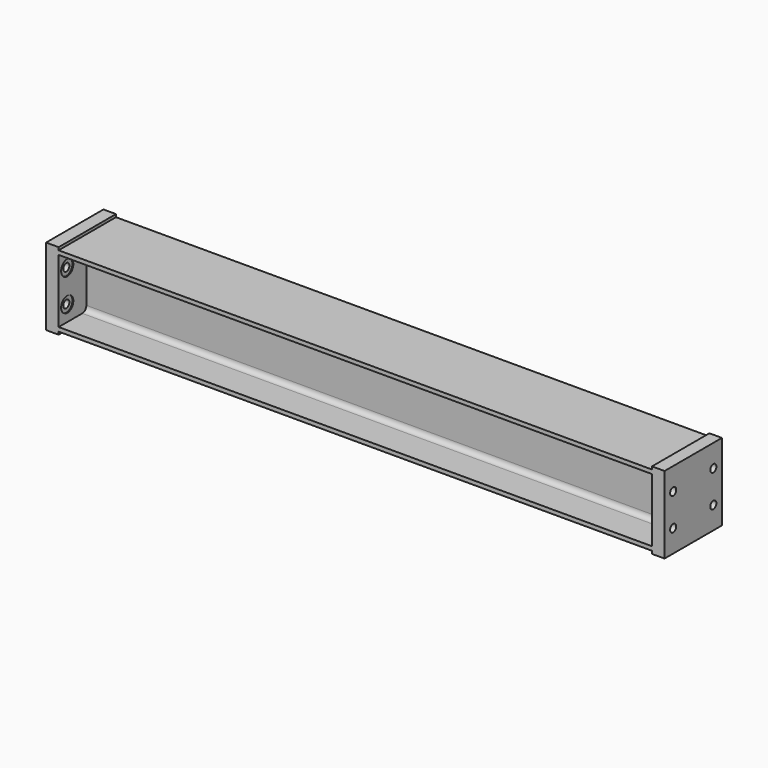
from build123d import *

# Parameters (mm, degrees)
F1_DEPTH       = 1050.925
F2_W           = 254
F2_H           = 273.05
F3_DEPTH       = 44.45
F5_D           = 26.9748
F5_CBORE_D     = 53.975
F5_CBORE_DEPTH = 3.175


with BuildPart() as f1:
    # F0 (on Right) → F1 (new body, symmetric)
    with BuildSketch(Plane.YZ):
        with BuildLine():
            Line((127, 126.746), (-127, 126.746))
            Line((-127, 126.746), (-127, 112.522))
            Line((-127, 112.522), (-22.098, 112.522))
            ThreePointArc((-22.098, 112.522), (-9.5256414305, 107.3143585695), (-4.318, 94.742))
            Line((-4.318, 94.742), (-4.318, -94.742))
            ThreePointArc((-4.318, -94.742), (-9.5256414305, -107.3143585695), (-22.098, -112.522))
            Line((-22.098, -112.522), (-127, -112.522))
            Line((-127, -112.522), (-127, -126.746))
            Line((-127, -126.746), (127, -126.746))
            Line((127, -126.746), (127, -112.522))
            Line((127, -112.522), (22.098, -112.522))
            ThreePointArc((22.098, -112.522), (9.5256414305, -107.3143585695), (4.318, -94.742))
            Line((4.318, -94.742), (4.318, 94.742))
            ThreePointArc((4.318, 94.742), (9.5256414305, 107.3143585695), (22.098, 112.522))
            Line((22.098, 112.522), (127, 112.522))
            Line((127, 112.522), (127, 126.746))
        make_face()
    extrude(amount=F1_DEPTH, both=True)

    # F2 (on face) → F3 (join)
    with BuildSketch(Plane.YZ.offset(1050.925)):
        Rectangle(F2_W, F2_H)
    extrude(amount=F3_DEPTH)

    # F5 (through all)
    with Locations(Plane(origin=(1050.925, 0, 0), x_dir=(0, -1, 0), z_dir=(-1, 0, 0))):
        with Locations((-88.9, 57.15), (-88.9, -57.15), (88.9, 57.15), (88.9, -57.15)):
            CounterBoreHole(F5_D / 2, F5_CBORE_D / 2, F5_CBORE_DEPTH)

    # F6: F1 across plane


with BuildPart() as f1_1:
    add(f1.part)
    add(f1.part.mirror(Plane.YZ))


solid = f1_1.part
